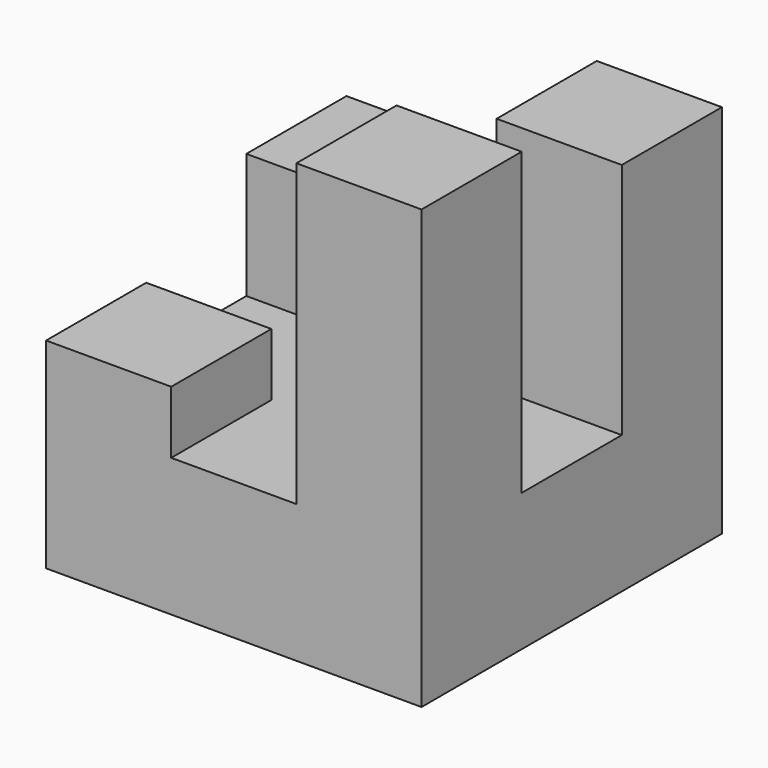
from build123d import *

# Parameters (mm, degrees)
F1_DEPTH  = 76.2
F2_W      = 25.4
F2_H      = 25.4
F3_DEPTH  = 38.1
F4_W      = 25.4
F4_H      = 25.4
F5_DEPTH  = 12.7
F6_DEPTH  = 12.7
F7_W      = 25.4
F7_H      = 25.4
F8_DEPTH  = 35.56
F9_DEPTH  = 25.4
F10_DEPTH = 12.7


with BuildPart() as f1:
    # F0 (on Front) → F1 (new body)
    with BuildSketch(Plane.XZ):
        Polygon((-60.6652237475, 10.9855490685), (-60.6652237475, -29.7227894413), (15.5347762525, -29.7227894413), (15.5347762525, 33.7772105587), (-9.8652237475, 33.7772105587), (-9.8652237475, -1.7144509315), (-35.2652237475, -1.7144509315), (-35.2652237475, 10.9855490685), align=None)
    extrude(amount=F1_DEPTH)

    # F2 (on face) → F3 (join)
    with BuildSketch(Plane.XY.offset(33.7772105587)):
        with Locations((2.8347762525, -38.1)):
            Rectangle(F2_W, F2_H)
    extrude(amount=-F3_DEPTH)

    # F4 (on face) → F5 (cut)
    with BuildSketch(Plane.XY.offset(10.9855490685)):
        with Locations((-47.9652237475, -38.1)):
            Rectangle(F4_W, F4_H)
    extrude(amount=-F5_DEPTH, mode=Mode.SUBTRACT)

    # F6 (add): a face of the model
    f6_faces = [f1.faces().sort_by_distance(p)[0] for p in [
        (-47.9652237475, -12.7, 10.9855490685),
    ]]
    extrude(f6_faces, amount=F6_DEPTH)

    # F7 (on face) → F8 (cut)
    with BuildSketch(Plane.XY.offset(33.7772105587)):
        with Locations((2.8347762525, -38.1)):
            Rectangle(F7_W, F7_H)
    extrude(amount=-F8_DEPTH, mode=Mode.SUBTRACT)

    # F9 (add): a face of the model
    f9_faces = [f1.faces().sort_by_distance(p)[0] for p in [
        (2.8347762525, -63.5, 33.7772105587),
    ]]
    extrude(f9_faces, amount=F9_DEPTH)

    # F10 (add): a face of the model
    f10_faces = [f1.faces().sort_by_distance(p)[0] for p in [
        (2.8347762525, -12.7, 33.7772105587),
    ]]
    extrude(f10_faces, amount=F10_DEPTH)


solid = f1.part
